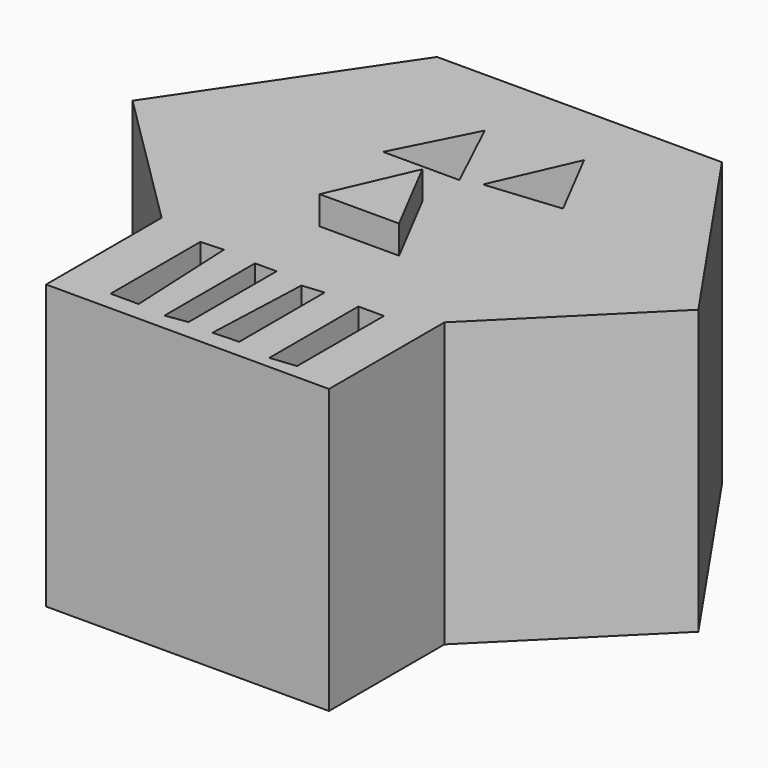
from build123d import *

# Parameters (mm, degrees)
PAD_DEPTH       = 20
POCKET_DEPTH    = 5
POCKET001_DEPTH = 5
POCKET002_DEPTH = 10
POCKET003_DEPTH = 10
POCKET004_DEPTH = 10
POCKET005_DEPTH = 10
PAD001_DEPTH    = 2


with BuildPart() as part:
    # Sketch → Pad (new body)
    with BuildSketch(Plane.XY):
        Polygon((-10.136965, 24.465265), (9.95841, 24.465265), (19.936804, 9.913441), (9.95841, 0), (9.95841, -10.181935), (-9.998377, -10.181935), (-9.998377, 0), (-19.97677, 9.913441), align=None)
    extrude(amount=PAD_DEPTH)

    # Sketch001 (on Face10 of Pad) → Pocket (cut)
    with BuildSketch(Plane.XY.offset(20)):
        Polygon((-5.386747, 13.766779), (0, 13.766779), (-2.599782, 19.24781), align=None)
    extrude(amount=-POCKET_DEPTH, mode=Mode.SUBTRACT)

    # Sketch002 (on Face5 of Pocket) → Pocket001 (cut)
    with BuildSketch(Plane.XY.offset(20)):
        Polygon((1.335867, 14.164042), (6.583323, 14.671863), (3.87496, 19.919313), align=None)
    extrude(amount=-POCKET001_DEPTH, mode=Mode.SUBTRACT)

    # Sketch003 (on Face5 of Pocket001) → Pocket002 (cut)
    with BuildSketch(Plane.XY.offset(20)):
        Polygon((-6.538883, -0.90654), (-4.94164, -0.83048), (-4.561344, -8.816691), (-6.538883, -8.816691), align=None)
    extrude(amount=-POCKET002_DEPTH, mode=Mode.SUBTRACT)

    # Sketch004 (on Face5 of Pocket002) → Pocket003 (cut)
    with BuildSketch(Plane.XY.offset(20)):
        Polygon((-2.588899, -1.019739), (-1.067716, -1.019739), (-1.067716, -8.777773), (-2.588899, -9.00595), align=None)
    extrude(amount=-POCKET003_DEPTH, mode=Mode.SUBTRACT)

    # Sketch005 (on Face5 of Pocket003) → Pocket004 (cut)
    with BuildSketch(Plane.XY.offset(20)):
        Polygon((1.05956, -1.495936), (2.580743, -1.343817), (2.580743, -8.873672), (0.755325, -8.949731), align=None)
    extrude(amount=-POCKET004_DEPTH, mode=Mode.SUBTRACT)

    # Sketch006 (on Face5 of Pocket004) → Pocket005 (cut)
    with BuildSketch(Plane.XY.offset(20)):
        Polygon((5.072445, -1.486341), (6.878333, -1.486341), (6.878333, -9.145793), (5.072445, -9.33261), align=None)
    extrude(amount=-POCKET005_DEPTH, mode=Mode.SUBTRACT)

    # Sketch007 (on Face5 of Pocket005) → Pad001 (join)
    with BuildSketch(Plane.XY.offset(20)):
        Polygon((0, 10.495331), (-2.563093, 4.641765), (3.041384, 4.641765), align=None)
    extrude(amount=PAD001_DEPTH)


solid = part.part
